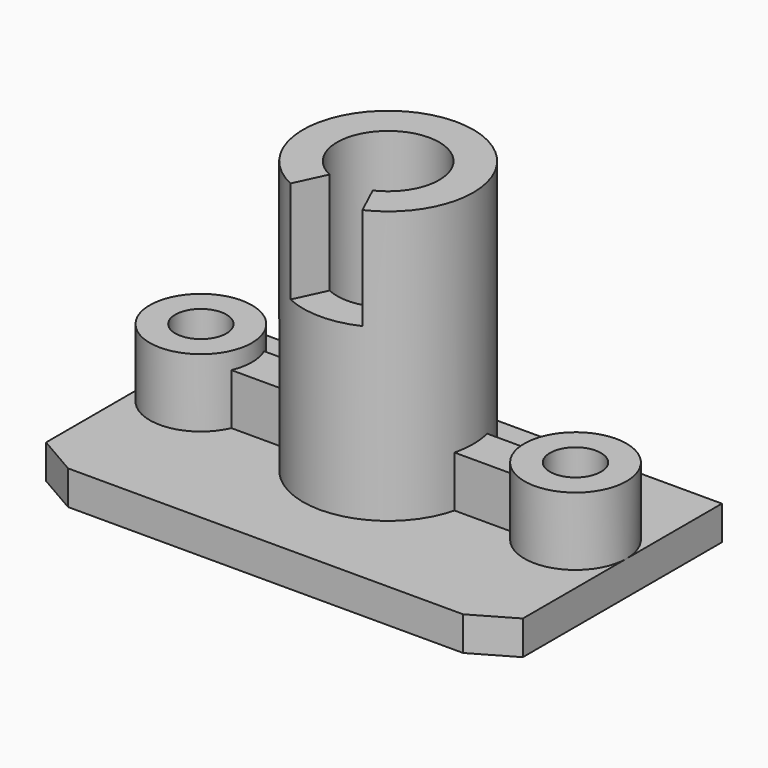
from build123d import *

# Parameters (mm, degrees)
SKETCH_W        = 140
SKETCH_H        = 80
SKETCH_R        = 7.5
SKETCH_R_2      = 15
PAD_DEPTH       = 10
POCKET_DEPTH    = 11
SKETCH004_R     = 25
SKETCH004_R_2   = 15
PAD001_DEPTH    = 80
SKETCH005_R     = 15
SKETCH005_R_2   = 7.5
PAD002_DEPTH    = 20
SKETCH006_W     = 26
SKETCH006_H     = 12
PAD003_DEPTH    = 15
POCKET001_DEPTH = 30


with BuildPart() as part:
    # Sketch → Pad (new body)
    with BuildSketch(Plane.XY):
        Rectangle(SKETCH_W, SKETCH_H)
        with Locations((-55, 5)):
            Circle(SKETCH_R, mode=Mode.SUBTRACT)
        with Locations((55, 5)):
            Circle(SKETCH_R, mode=Mode.SUBTRACT)
        with Locations((0, 5)):
            Circle(SKETCH_R_2, mode=Mode.SUBTRACT)
    extrude(amount=PAD_DEPTH)

    # Sketch001 (on Face9 of Pad) → Pocket (cut)
    with BuildSketch(Plane.XY.offset(10)):
        Polygon((-70, -33.071797), (-58, -40), (-70, -40), align=None)
        Polygon((70, -33.071797), (70, -40), (58, -40), align=None)
    extrude(amount=-POCKET_DEPTH, mode=Mode.SUBTRACT)

    # Sketch004 → Pad001 (join)
    with BuildSketch(Plane.XY.offset(10)):
        with Locations((0, 5)):
            Circle(SKETCH004_R)
        with Locations((0, 5)):
            Circle(SKETCH004_R_2, mode=Mode.SUBTRACT)
    extrude(amount=PAD001_DEPTH)

    # Sketch005 (on Face4 of Pad001) → Pad002 (join)
    with BuildSketch(Plane.XY.offset(10)):
        with Locations((55, 5)):
            Circle(SKETCH005_R)
        with Locations((55, 5)):
            Circle(SKETCH005_R_2, mode=Mode.SUBTRACT)
        with Locations((-55, 5)):
            Circle(SKETCH005_R)
        with Locations((-55, 5)):
            Circle(SKETCH005_R_2, mode=Mode.SUBTRACT)
    extrude(amount=PAD002_DEPTH)

    # Sketch006 (on Face4 of Pad002) → Pad003 (join)
    with BuildSketch(Plane.XY.offset(10)):
        with Locations((-33.01482, 5)):
            Rectangle(SKETCH006_W, SKETCH006_H)
        with Locations((33.01482, 5)):
            Rectangle(SKETCH006_W, SKETCH006_H)
    extrude(amount=PAD003_DEPTH)

    # Sketch007 (on Face21 of Pad003) → Pocket001 (cut)
    with BuildSketch(Plane.XY.offset(90)):
        with BuildLine():
            ThreePointArc((-10.565449, -17.657698), (1e-06, -20), (10.56545, -17.657698))
            Line((10.56545, -17.657698), (0, 5))
            Line((0, 5), (-10.565449, -17.657698))
        make_face()
    extrude(amount=-POCKET001_DEPTH, mode=Mode.SUBTRACT)


solid = part.part
